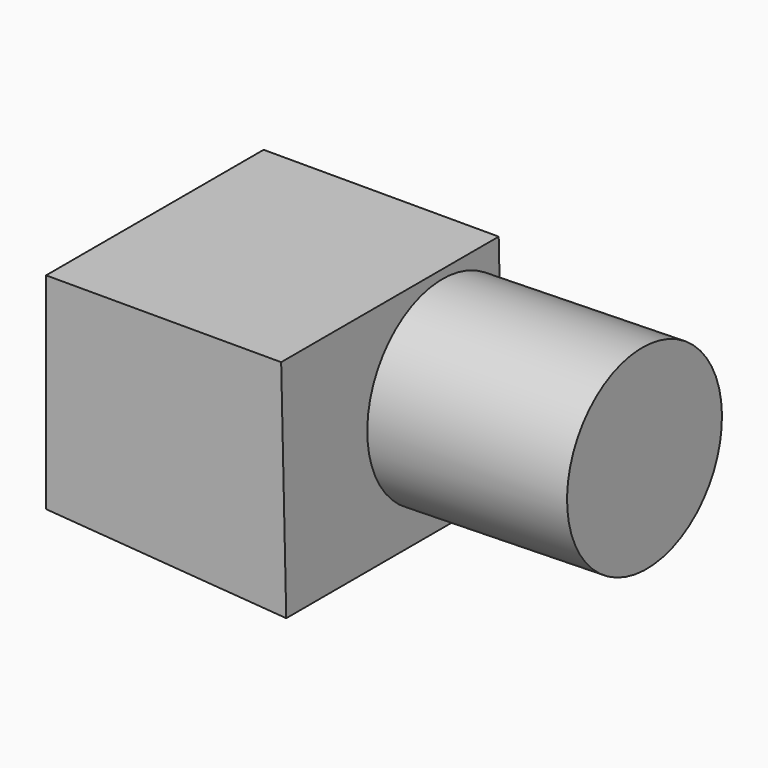
from build123d import *

# Parameters (mm, degrees)
F1_DEPTH = 133.4536075592
F2_R     = 47.4937731555
F3_DEPTH = 98.074324429


with BuildPart() as f1:
    # F0 (on Front) → F1 (new body)
    with BuildSketch(Plane.XZ):
        Polygon((71.4150071144, -56.552413851), (68.9125359058, 53.2593838871), (-46.456463635, 53.2593838871), (-46.456463635, -47.7568171918), align=None)
    extrude(amount=F1_DEPTH)

    # F2 (on face) → F3 (join)
    with BuildSketch(Plane(origin=(70.0898500371, 0, 1.59725854), x_dir=(0, 1, 0), z_dir=(0.999740438, 0, 0.0227828131))):
        with Locations((-34.5956459641, 0)):
            Circle(F2_R)
    extrude(amount=F3_DEPTH)


solid = f1.part
